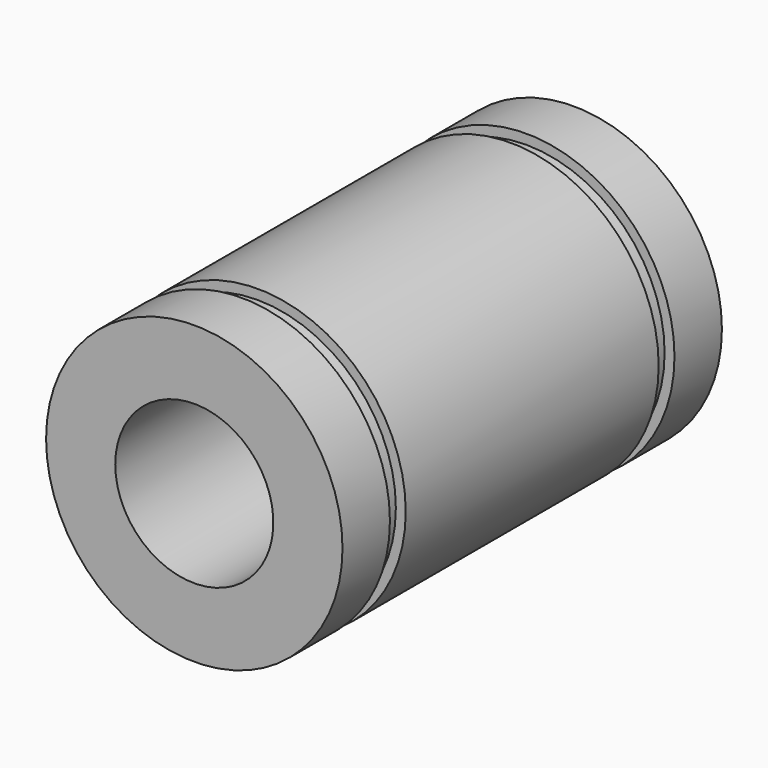
from build123d import *


with BuildPart() as part:
    # Sketch → Revolution (revolve)
    with BuildSketch(Plane.XY):
        Polygon((-7.5, 12), (-4, 12), (-4, -12), (-7.5, -12), (-7.5, -9), (-7, -9), (-7, -8), (-7.5, -8), (-7.5, 8), (-7, 8), (-7, 9), (-7.5, 9), align=None)
    revolve(axis=Axis((0, 0, 0), (0, 1, 0)))


solid = part.part
